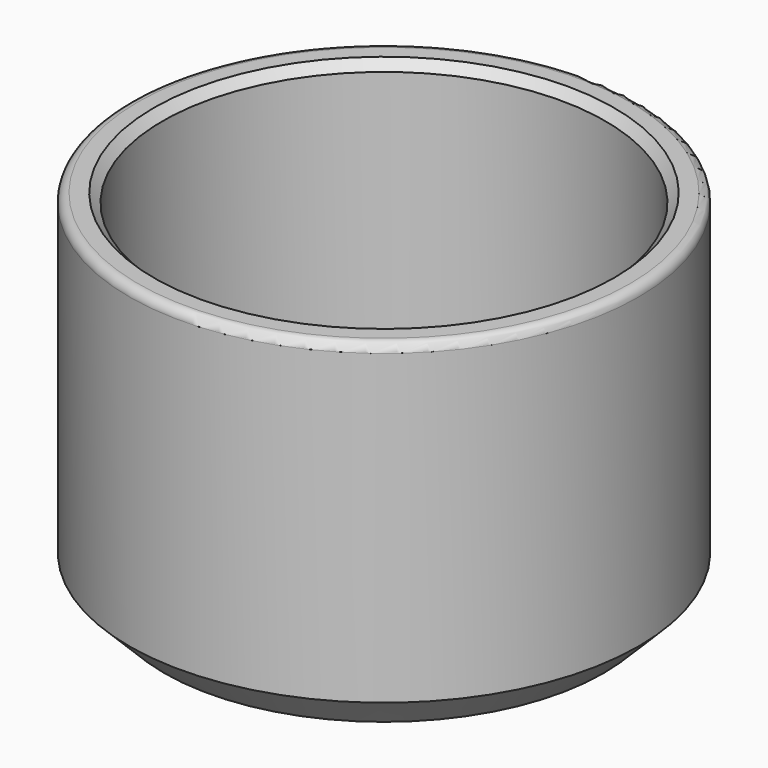
from build123d import *

# Parameters (mm, degrees)
SKETCH_R        = 14.5
PAD_DEPTH       = 20
SKETCH001_R     = 12.6
POCKET_DEPTH    = 18
CHAMFER_SIZE    = 2
CHAMFER001_SIZE = 0.5
FILLET_R        = 0.5


with BuildPart() as part:
    # Sketch → Pad (new body)
    with BuildSketch(Plane.XY):
        Circle(SKETCH_R)
    extrude(amount=PAD_DEPTH)

    # Sketch001 (on Face3 of Pad) → Pocket (cut)
    with BuildSketch(Plane.XY.offset(20)):
        Circle(SKETCH001_R)
    extrude(amount=-POCKET_DEPTH, mode=Mode.SUBTRACT)

    # Chamfer
    chamfer_edges = [part.edges().sort_by_distance(p)[0] for p in [
        (-14.5, 0, 0),
    ]]
    chamfer(chamfer_edges, length=CHAMFER_SIZE)

    # Chamfer001
    chamfer001_edges = [part.edges().sort_by_distance(p)[0] for p in [
        (-12.6, 0, 20),
    ]]
    chamfer(chamfer001_edges, length=CHAMFER001_SIZE)

    # Fillet
    fillet_edges = [part.edges().sort_by_distance(p)[0] for p in [
        (-14.5, 0, 20),
    ]]
    fillet(fillet_edges, radius=FILLET_R)


solid = part.part
